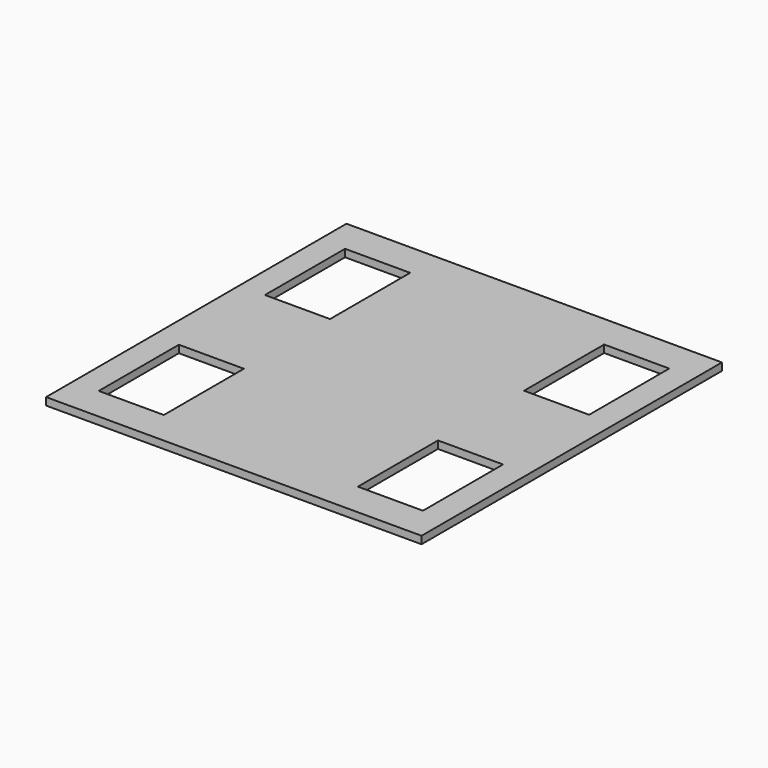
from build123d import *

# Parameters (mm, degrees)
F0_W     = 150
F0_H     = 150
F0_W_2   = 144
F0_H_2   = 144
F0_W_3   = 26
F0_H_3   = 40
F1_DEPTH = 3


with BuildPart() as f1:
    # F0 (on Top) → F1 (new body)
    with BuildSketch(Plane.XY):
        Rectangle(F0_W, F0_H)
        Rectangle(F0_W_2, F0_H_2, mode=Mode.SUBTRACT)
        Rectangle(F0_W_2, F0_H_2)
        with Locations((-51.7589670179, -41.4965771884)):
            Rectangle(F0_W_3, F0_H_3, mode=Mode.SUBTRACT)
        with Locations((51.7589670179, -41.4965771884)):
            Rectangle(F0_W_3, F0_H_3, mode=Mode.SUBTRACT)
        with Locations((-51.7589670179, 41.4965771884)):
            Rectangle(F0_W_3, F0_H_3, mode=Mode.SUBTRACT)
        with Locations((51.7589670179, 41.4965771884)):
            Rectangle(F0_W_3, F0_H_3, mode=Mode.SUBTRACT)
    extrude(amount=F1_DEPTH)


solid = f1.part
